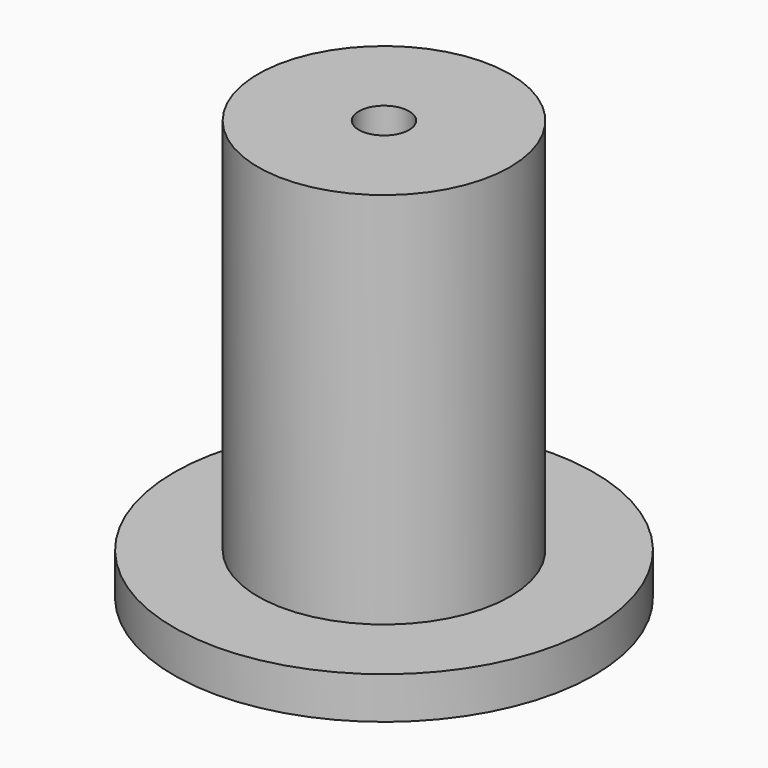
from build123d import *

# Parameters (mm, degrees)
F0_R     = 15
F1_DEPTH = 50
F2_R     = 25
F3_DEPTH = 5
F4_R     = 3
F5_DEPTH = 60


with BuildPart() as f1:
    # F0 (on Top) → F1 (new body)
    with BuildSketch(Plane.XY):
        Circle(F0_R)
    extrude(amount=F1_DEPTH)

    # F2 (on Top) → F3 (join)
    with BuildSketch(Plane.XY):
        Circle(F2_R)
    extrude(amount=F3_DEPTH)


with BuildPart() as f5:
    # F4 (on Top) → F5 (new body)
    with BuildSketch(Plane.XY):
        Circle(F4_R)
    extrude(amount=F5_DEPTH)


with BuildPart() as f1_1:
    add(f1.part)

    # F6: cut F5
    add(f5.part, mode=Mode.SUBTRACT)


solid = f1_1.part
